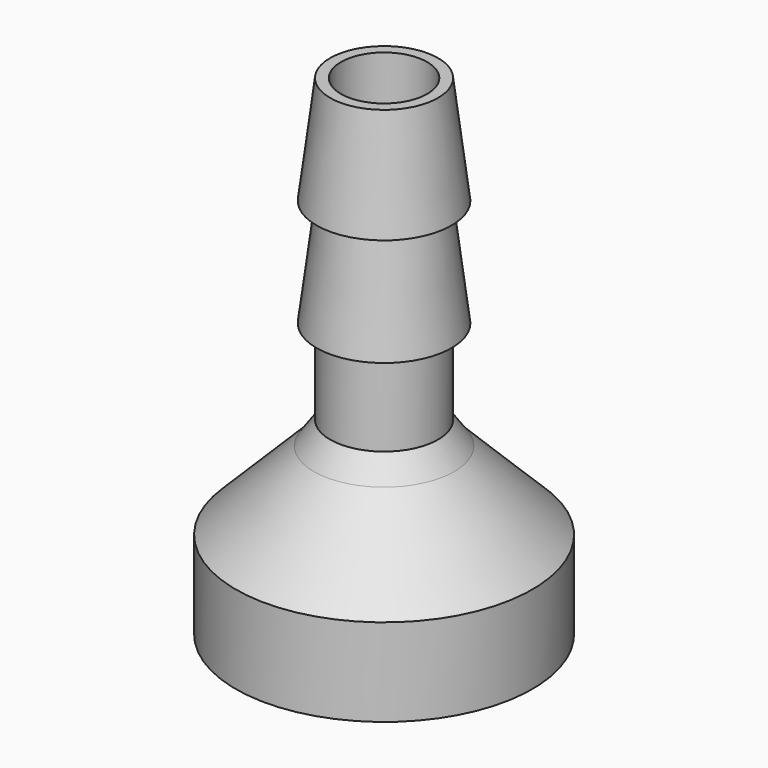
from build123d import *


with BuildPart() as part:
    # Sketch → Revolution (revolve)
    with BuildSketch(Plane.XZ):
        Polygon((-9, 0), (-11, 0), (-11, 6.5), (-5.2, 12.3), (-4, 14), (-4, 20.3), (-5, 20.3), (-4, 28.3), (-5, 28.3), (-4, 36.3), (-3.2, 36.3), (-3.2, 12.3), (-9, 6.5), align=None)
    revolve(axis=Axis((0, 0, 0), (0, 0, 1)))


solid = part.part
